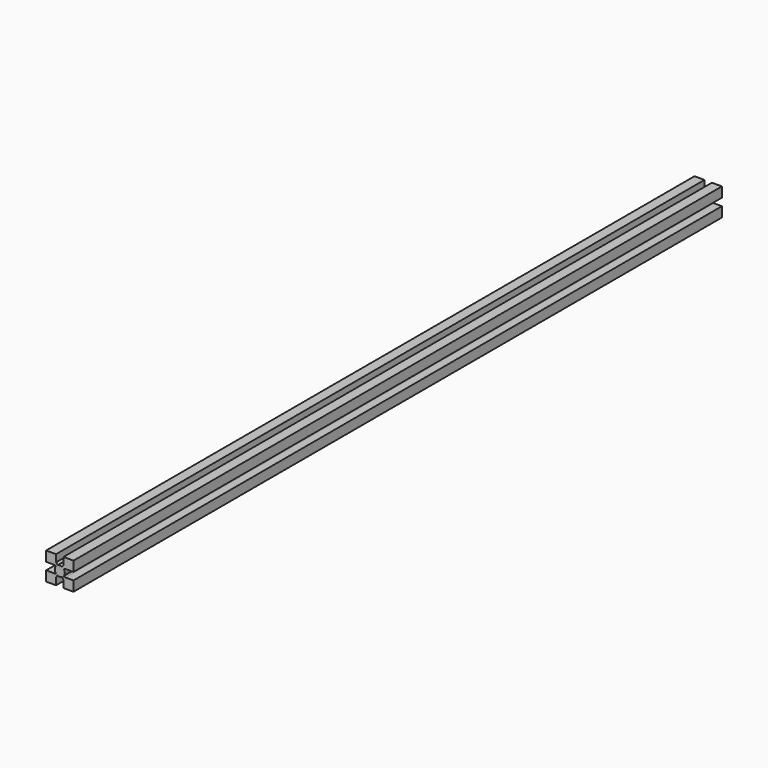
from build123d import *

# Parameters (mm, degrees)
F1_DEPTH = 650


with BuildPart() as f1:
    # F0 (on Front) → F1 (new body, symmetric)
    with BuildSketch(Plane.XZ):
        with BuildLine():
            Line((6, -22), (22, -22))
            Line((22, -22), (22, -6))
            Line((22, -6), (9.127227, -6))
            Line((9.127227, -6), (6.012498, -5.277298))
            ThreePointArc((6.012498, -5.277298), (4.92284, -6.306001), (3.660452, -7.113444))
            Line((3.660452, -7.113444), (6, -10.428497))
            Line((6, -10.428497), (6, -22))
        make_face()
        with BuildLine():
            ThreePointArc((-3.660452, -7.113444), (0, -8), (3.660452, -7.113444))
            ThreePointArc((3.660452, -7.113444), (4.92284, -6.306001), (6.012498, -5.277298))
            ThreePointArc((6.012498, -5.277298), (7.486654, -2.819576), (8, 0))
            ThreePointArc((8, 0), (7.486654, 2.819576), (6.012498, 5.277298))
            ThreePointArc((6.012498, 5.277298), (4.92284, 6.306001), (3.660452, 7.113444))
            ThreePointArc((3.660452, 7.113444), (0, 8), (-3.660452, 7.113444))
            ThreePointArc((-3.660452, 7.113444), (-4.92284, 6.306001), (-6.012498, 5.277298))
            ThreePointArc((-6.012498, 5.277298), (-8, 0), (-6.012498, -5.277298))
            ThreePointArc((-6.012498, -5.277298), (-4.92284, -6.306001), (-3.660452, -7.113444))
        make_face()
        with BuildLine():
            Line((-6, -10.428497), (-3.660452, -7.113444))
            ThreePointArc((-3.660452, -7.113444), (-4.92284, -6.306001), (-6.012498, -5.277298))
            Line((-6.012498, -5.277298), (-9.127227, -6))
            Line((-9.127227, -6), (-22, -6))
            Line((-22, -6), (-22, -22))
            Line((-22, -22), (-6, -22))
            Line((-6, -22), (-6, -10.428497))
        make_face()
        with BuildLine():
            ThreePointArc((3.660452, 7.113444), (4.92284, 6.306001), (6.012498, 5.277298))
            Line((6.012498, 5.277298), (9.127227, 6))
            Line((9.127227, 6), (22, 6))
            Line((22, 6), (22, 22))
            Line((22, 22), (6, 22))
            Line((6, 22), (6, 10.428497))
            Line((6, 10.428497), (3.660452, 7.113444))
        make_face()
        with BuildLine():
            Line((-9.127227, 6), (-6.012498, 5.277298))
            ThreePointArc((-6.012498, 5.277298), (-4.92284, 6.306001), (-3.660452, 7.113444))
            Line((-3.660452, 7.113444), (-6, 10.428497))
            Line((-6, 10.428497), (-6, 22))
            Line((-6, 22), (-22, 22))
            Line((-22, 22), (-22, 6))
            Line((-22, 6), (-9.127227, 6))
        make_face()
    extrude(amount=F1_DEPTH, both=True)


solid = f1.part
